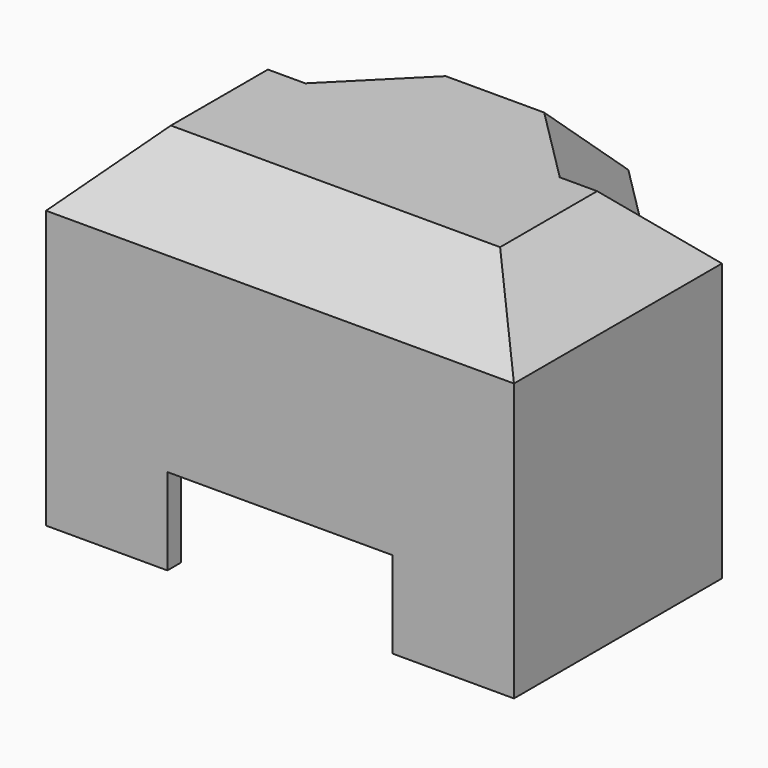
from build123d import *

# Parameters (mm, degrees)
PAD_DEPTH       = 10
SKETCH001_R     = 2.55
POCKET_DEPTH    = 8
CHAMFER_SIZE    = 4
PAD001_DEPTH    = 10
SKETCH003_W     = 13
SKETCH003_H     = 6.844848
POCKET001_DEPTH = 19.501
FILLET_R        = 2


with BuildPart() as part:
    # Sketch → Pad (new body)
    with BuildSketch(Plane.XY):
        Polygon((-4.5, 8.5), (4.5, 8.5), (9, 4), (13.5, 4), (13.5, -11), (-13.5, -11), (-13.5, 4), (-9, 4), align=None)
    extrude(amount=PAD_DEPTH)

    # Sketch001 → Pocket (cut)
    with BuildSketch(Plane(origin=(0, 0, 0), x_dir=(1, 0, 0), z_dir=(0, 0, -1))):
        Circle(SKETCH001_R)
    extrude(amount=-POCKET_DEPTH, mode=Mode.SUBTRACT)

    # Chamfer
    chamfer_edges = [part.edges().sort_by_distance(p)[0] for p in [
        (0, 8.5, 10),
        (6.75, 6.25, 10),
        (11.25, 4, 10),
        (13.5, -3.5, 10),
        (0, -11, 10),
        (-13.5, -3.5, 10),
        (-11.25, 4, 10),
        (-6.75, 6.25, 10),
    ]]
    chamfer(chamfer_edges, length=CHAMFER_SIZE)

    # Sketch002 → Pad001 (new body)
    with BuildSketch(Plane(origin=(0, 0, 0), x_dir=(1, 0, 0), z_dir=(0, 0, -1))):
        Polygon((-13.5, -4), (-12.5, -4), (-12.5, 10), (12.5, 10), (12.5, -4), (13.5, -4), (13.5, 11), (-13.5, 11), align=None)
    extrude(amount=PAD001_DEPTH)

    # Sketch003 → Pocket001 (cut, through all)
    with BuildSketch(Plane.XZ.offset(11)):
        with Locations((0, -8.422424)):
            Rectangle(SKETCH003_W, SKETCH003_H)
    extrude(amount=-POCKET001_DEPTH, mode=Mode.SUBTRACT)

    # Fillet
    fillet_edges = [part.edges().sort_by_distance(p)[0] for p in [
        (12.5, -3, 0),
        (0, -10, 0),
        (-12.5, -3, 0),
    ]]
    fillet(fillet_edges, radius=FILLET_R)


solid = part.part
